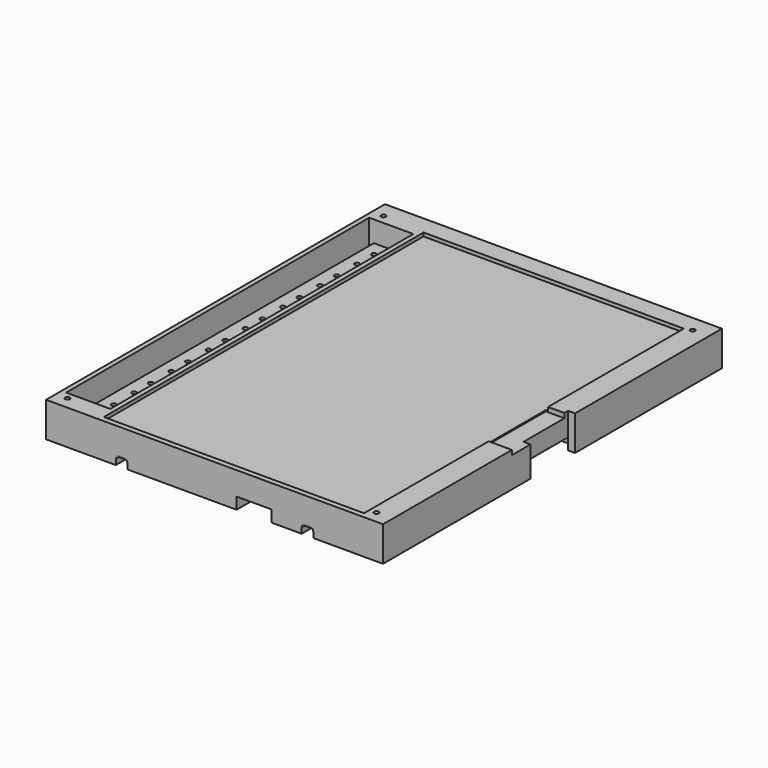
from build123d import *

# Parameters (mm, degrees)
BOX005_W                             = 145
BOX005_H                             = 15
BOX005_DEPTH                         = 182.3
BOX006_W                             = 19
BOX006_H                             = 163
BOX006_DEPTH                         = 13
BOX007_W                             = 112
BOX007_H                             = 172
BOX007_DEPTH                         = 1.5
BOX008_W                             = 11
BOX008_H                             = 32
BOX008_DEPTH                         = 2
BOX009_W                             = 3
BOX009_H                             = 24
BOX009_DEPTH                         = 17
BOX010_W                             = 60
BOX010_H                             = 32
BOX010_DEPTH                         = 5
BOX011_W                             = 15
BOX011_H                             = 80
BOX011_DEPTH                         = 5
BOX012_W                             = 5
BOX012_H                             = 70
BOX012_DEPTH                         = 3
LINEARPATTERN001_COUNT               = 2
LINEARPATTERN001_PITCH               = 80
FILLET_R                             = 1
FILLET001_R                          = 1
CYLINDER002_R                        = 1
CYLINDER002_DEPTH                    = 20
CYLINDER002_LINEARPATTERN002_2_R     = 1
CYLINDER002_LINEARPATTERN002_2_DEPTH = 20
LINEARPATTERN003_COUNT               = 2
LINEARPATTERN003_PITCH               = 170
BOX013_W                             = 11
BOX013_H                             = 165
BOX013_DEPTH                         = 4
CYLINDER004_R                        = 1
CYLINDER004_DEPTH                    = 3
CYLINDER004_LINEARPATTERN006_2_R     = 1
CYLINDER004_LINEARPATTERN006_2_DEPTH = 3
LINEARPATTERN007_COUNT               = 8
LINEARPATTERN007_PITCH               = 20
CYLINDER005_R                        = 3
CYLINDER005_DEPTH                    = 10
CYLINDER005_LINEARPATTERN008_2_R     = 3
CYLINDER005_LINEARPATTERN008_2_DEPTH = 10
LINEARPATTERN009_COUNT               = 2
LINEARPATTERN009_PITCH               = 170


with BuildPart() as part:
    # Box005 → Box005 (join)
    with BuildSketch(Plane(origin=(0, 182, -11), x_dir=(1, 0, 0), z_dir=(0, -1, 0))):
        with Locations((72.5, 7.5)):
            Rectangle(BOX005_W, BOX005_H)
    extrude(amount=BOX005_DEPTH)

    # Box006 → Box006 (cut)
    with BuildSketch(Plane(origin=(2, 8, -9), x_dir=(1, 0, 0), z_dir=(0, 0, 1))):
        with Locations((9.5, 81.5)):
            Rectangle(BOX006_W, BOX006_H)
    extrude(amount=BOX006_DEPTH, mode=Mode.SUBTRACT)

    # Box007 → Box007 (cut)
    with BuildSketch(Plane(origin=(23, 2, 2.5), x_dir=(1, 0, 0), z_dir=(0, 0, 1))):
        with Locations((56, 86)):
            Rectangle(BOX007_W, BOX007_H)
    extrude(amount=BOX007_DEPTH, mode=Mode.SUBTRACT)

    # Box008 → Box008 (cut)
    with BuildSketch(Plane(origin=(134, 69, 2), x_dir=(1, 0, 0), z_dir=(0, 0, 1))):
        with Locations((5.5, 16)):
            Rectangle(BOX008_W, BOX008_H)
    extrude(amount=BOX008_DEPTH, mode=Mode.SUBTRACT)

    # Box009 → Box009 (cut)
    with BuildSketch(Plane(origin=(142, 79, -12), x_dir=(1, 0, 0), z_dir=(0, 0, 1))):
        with Locations((1.5, 12)):
            Rectangle(BOX009_W, BOX009_H)
    extrude(amount=BOX009_DEPTH, mode=Mode.SUBTRACT)

    # Box010 → Box010 (cut)
    with BuildSketch(Plane(origin=(82, 75, -11), x_dir=(1, 0, 0), z_dir=(0, 0, 1))):
        with Locations((30, 16)):
            Rectangle(BOX010_W, BOX010_H)
    extrude(amount=BOX010_DEPTH, mode=Mode.SUBTRACT)

    # Box011 → Box011 (cut)
    with BuildSketch(Plane(origin=(82, -2, -11), x_dir=(1, 0, 0), z_dir=(0, 0, 1))):
        with Locations((7.5, 40)):
            Rectangle(BOX011_W, BOX011_H)
    extrude(amount=BOX011_DEPTH, mode=Mode.SUBTRACT)

    # Box012 → Box012 (cut)
    with BuildSketch(Plane(origin=(30, -1, -11), x_dir=(1, 0, 0), z_dir=(0, 0, 1))):
        with Locations((2.5, 35)):
            Rectangle(BOX012_W, BOX012_H)
    box012 = extrude(amount=BOX012_DEPTH, mode=Mode.SUBTRACT)

    # LinearPattern001: Box012 ×2
    with Locations(*[(i * LINEARPATTERN001_PITCH, 0, 0) for i in range(1, LINEARPATTERN001_COUNT)]):
        add(box012, mode=Mode.SUBTRACT)

    # Fillet
    fillet_edges = [part.edges().sort_by_distance(p)[0] for p in [
        (30, 34.35, -8),
        (32.5, 69, -8),
        (35, 34.35, -8),
        (32.5, -0.3, -8),
    ]]
    fillet(fillet_edges, radius=FILLET_R)

    # Fillet001
    fillet001_edges = [part.edges().sort_by_distance(p)[0] for p in [
        (110, 34.35, -8),
        (112.5, 69, -8),
        (115, 34.35, -8),
        (112.5, -0.3, -8),
    ]]
    fillet(fillet001_edges, radius=FILLET001_R)

    # Cylinder002 → Cylinder002 (cut)
    with BuildSketch(Plane(origin=(5, 5, -13), x_dir=(1, 0, 0), z_dir=(0, 0, 1))):
        Circle(CYLINDER002_R)
    cylinder002 = extrude(amount=CYLINDER002_DEPTH, mode=Mode.SUBTRACT)

    # Cylinder002 LinearPattern002 2 → Cylinder002 LinearPattern002 2 (cut)
    with BuildSketch(Plane(origin=(138, 5, -13), x_dir=(1, 0, 0), z_dir=(0, 0, 1))):
        Circle(CYLINDER002_LINEARPATTERN002_2_R)
    cylinder002_linearpattern002_2 = extrude(amount=CYLINDER002_LINEARPATTERN002_2_DEPTH, mode=Mode.SUBTRACT)

    # LinearPattern003: Cylinder002, Cylinder002 LinearPattern002 2 ×2
    with Locations(*[(0, i * LINEARPATTERN003_PITCH, 0) for i in range(1, LINEARPATTERN003_COUNT)]):
        add(cylinder002, mode=Mode.SUBTRACT)
        add(cylinder002_linearpattern002_2, mode=Mode.SUBTRACT)

    # Box013 → Box013 (join)
    with BuildSketch(Plane(origin=(4, 8, -9), x_dir=(1, 0, 0), z_dir=(0, 0, 1))):
        with Locations((5.5, 82.5)):
            Rectangle(BOX013_W, BOX013_H)
    extrude(amount=BOX013_DEPTH)

    # Cylinder004 → Cylinder004 (cut)
    with BuildSketch(Plane(origin=(9.125, 15.625, -8), x_dir=(1, 0, 0), z_dir=(0, 0, 1))):
        Circle(CYLINDER004_R)
    cylinder004 = extrude(amount=CYLINDER004_DEPTH, mode=Mode.SUBTRACT)

    # Cylinder004 LinearPattern006 2 → Cylinder004 LinearPattern006 2 (cut)
    with BuildSketch(Plane(origin=(9.125, 24.625, -8), x_dir=(1, 0, 0), z_dir=(0, 0, 1))):
        Circle(CYLINDER004_LINEARPATTERN006_2_R)
    cylinder004_linearpattern006_2 = extrude(amount=CYLINDER004_LINEARPATTERN006_2_DEPTH, mode=Mode.SUBTRACT)

    # LinearPattern007: Cylinder004, Cylinder004 LinearPattern006 2 ×8
    with Locations(*[(0, i * LINEARPATTERN007_PITCH, 0) for i in range(1, LINEARPATTERN007_COUNT)]):
        add(cylinder004, mode=Mode.SUBTRACT)
        add(cylinder004_linearpattern006_2, mode=Mode.SUBTRACT)

    # Cylinder005 → Cylinder005 (cut)
    with BuildSketch(Plane(origin=(5, 5, -12), x_dir=(1, 0, 0), z_dir=(0, 0, 1))):
        Circle(CYLINDER005_R)
    cylinder005 = extrude(amount=CYLINDER005_DEPTH, mode=Mode.SUBTRACT)

    # Cylinder005 LinearPattern008 2 → Cylinder005 LinearPattern008 2 (cut)
    with BuildSketch(Plane(origin=(138, 5, -12), x_dir=(1, 0, 0), z_dir=(0, 0, 1))):
        Circle(CYLINDER005_LINEARPATTERN008_2_R)
    cylinder005_linearpattern008_2 = extrude(amount=CYLINDER005_LINEARPATTERN008_2_DEPTH, mode=Mode.SUBTRACT)

    # LinearPattern009: Cylinder005, Cylinder005 LinearPattern008 2 ×2
    with Locations(*[(0, i * LINEARPATTERN009_PITCH, 0) for i in range(1, LINEARPATTERN009_COUNT)]):
        add(cylinder005, mode=Mode.SUBTRACT)
        add(cylinder005_linearpattern008_2, mode=Mode.SUBTRACT)


solid = part.part
